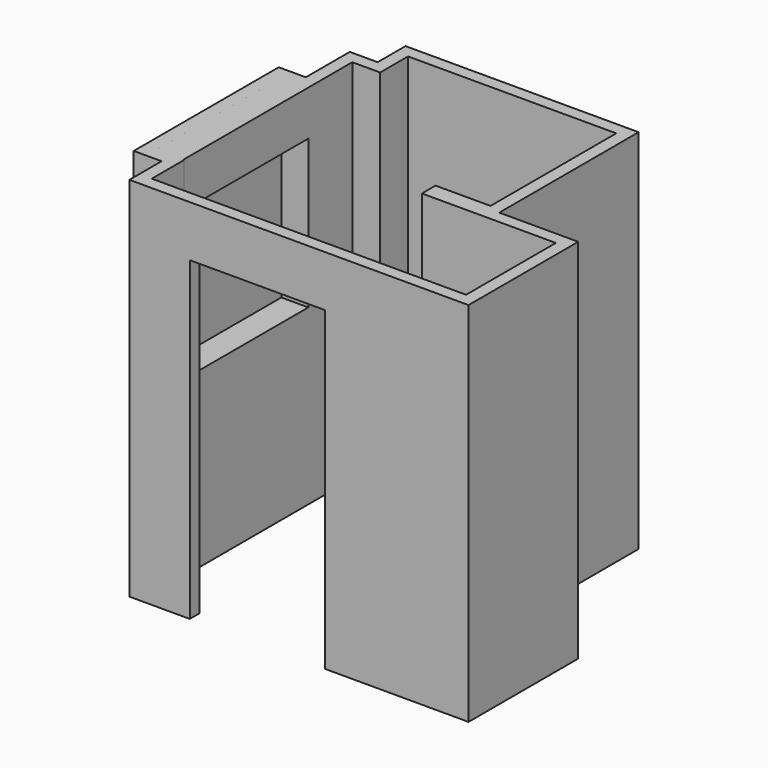
from build123d import *

# Parameters (mm, degrees)
F1_DEPTH = 2370
F2_W     = 875
F2_H     = 2040
F3_DEPTH = 80.2615196258
F5_DEPTH = 175
F6_DEPTH = 175
F7_DEPTH = 0.1
F8_DEPTH = 1


with BuildPart() as f1:
    # F0 (on Top) → F1 (new body)
    with BuildSketch(Plane.XY):
        Polygon((-1014.5091533661, 938.1877069533), (-1014.5091533661, 583.1877069533), (-1189.5091533661, 583.1877069533), (-1189.5091533661, -587.3353322983), (-1009.5091533661, -587.3353322983), (-1009.5091533661, -847.3353322983), (1181.0138858855, -847.3353322983), (1181.0138858855, 38.1877069533), (671.0138858855, 38.1877069533), (671.0138858855, 1163.1877069533), (-834.5091533661, 1163.1877069533), (-834.5091533661, 938.1877069533), align=None)
        Polygon((1100.7523662597, -42.0738126725), (1100.7523662597, -767.0738126725), (-929.2476337403, -767.0738126725), (-929.2476337403, -507.0738126725), (-1109.2476337403, -507.0738126725), (-1109.2476337403, 502.9261873275), (-934.2476337403, 502.9261873275), (-934.2476337403, 857.9261873275), (-754.2476337403, 857.9261873275), (-754.2476337403, 1082.9261873275), (590.7523662597, 1082.9261873275), (590.7523662597, 67.9261873275), (235.7523662597, 67.9261873275), (235.7523662597, -42.0738126725), align=None, mode=Mode.SUBTRACT)
    extrude(amount=F1_DEPTH)

    # F2 (on face) → F3 (cut, through all)
    with BuildSketch(Plane.XZ.offset(847.3353322983)):
        with Locations((-182.0091533661, 1020)):
            Rectangle(F2_W, F2_H)
    extrude(amount=-F3_DEPTH, mode=Mode.SUBTRACT)

    # F4 (on face) → F5 (join, through all)
    with BuildSketch(Plane.YZ.offset(-1109.2476337403)):
        Polygon((0, 2080), (502.9261873275, 2080), (502.9261873275, 2370), (-507.0738126725, 2370), (-507.0738126725, 2080), align=None)
    extrude(amount=F5_DEPTH)

    # F4 (on face) → F6 (join, through all)
    with BuildSketch(Plane.YZ.offset(-1109.2476337403)):
        Polygon((502.9261873275, 0), (502.9261873275, 1120), (-139.1143798828, 1120), (-507.0738126725, 1120), (-507.0738126725, 0), align=None)
    extrude(amount=F6_DEPTH)


with BuildPart() as f7:
    # F4 (on face) → F7 (new body)
    with BuildSketch(Plane.YZ.offset(-1109.2476337403)):
        Polygon((0, 2080), (502.9261873275, 2080), (502.9261873275, 2370), (-507.0738126725, 2370), (-507.0738126725, 2080), align=None)
    extrude(amount=F7_DEPTH)


with BuildPart() as f7b:
    # F4 (on face) → F7, piece 2 (new body)
    with BuildSketch(Plane.YZ.offset(-1109.2476337403)):
        Polygon((502.9261873275, 0), (502.9261873275, 1120), (-139.1143798828, 1120), (-507.0738126725, 1120), (-507.0738126725, 0), align=None)
    extrude(amount=F7_DEPTH)


with BuildPart() as f8:
    # F4 (on face) → F8 (new body)
    with BuildSketch(Plane.YZ.offset(-1109.2476337403)):
        Polygon((502.9261873275, 1120), (502.9261873275, 2080), (0, 2080), (-507.0738126725, 2080), (-507.0738126725, 1120), (-139.1143798828, 1120), align=None)
    extrude(amount=F8_DEPTH)


solid = Compound([f1.part, f7.part, f7b.part, f8.part])
